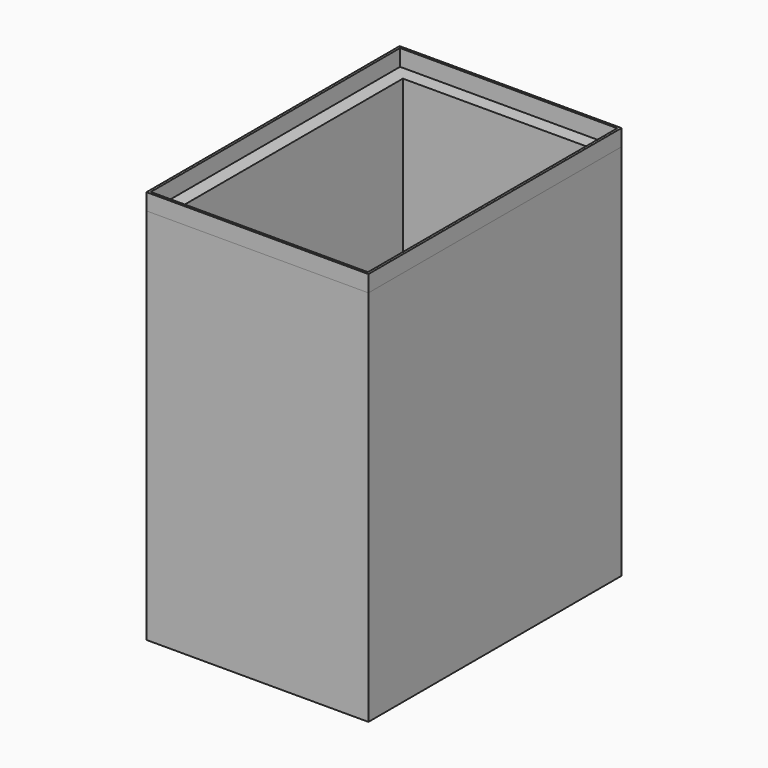
from build123d import *

# Parameters (mm, degrees)
F0_W     = 470
F0_H     = 670
F1_DEPTH = 800
F2_T     = -35
F3_W     = 470
F3_H     = 670
F3_W_2   = 460
F3_H_2   = 660
F4_DEPTH = 35


with BuildPart() as f1:
    # F0 (on Top) → F1 (new body)
    with BuildSketch(Plane.XY):
        Rectangle(F0_W, F0_H)
    extrude(amount=F1_DEPTH)

    # F2
    f2_openings = [f1.faces().sort_by_distance(p)[0] for p in [
        (0, 0, 800),
    ]]
    offset(amount=F2_T, openings=f2_openings)


with BuildPart() as f4:
    # F3 (on face) → F4 (new body)
    with BuildSketch(Plane.XY.offset(800)):
        Rectangle(F3_W, F3_H)
        Rectangle(F3_W_2, F3_H_2, mode=Mode.SUBTRACT)
    extrude(amount=F4_DEPTH)


solid = Compound([f1.part, f4.part])
